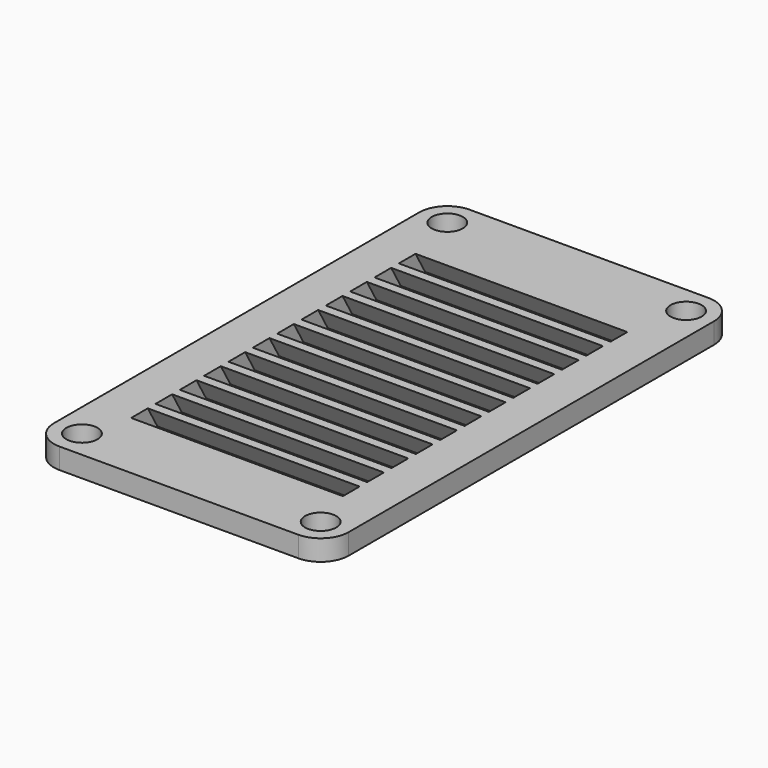
from build123d import *

# Parameters (mm, degrees)
F0_R     = 1.5
F0_W     = 20.4
F0_H     = 35.4
F1_DEPTH = 2
F3_DEPTH = 20.4


with BuildPart() as f1:
    # F0 (on Top) → F1 (new body)
    with BuildSketch(Plane.XY):
        with BuildLine():
            ThreePointArc((-11.5, 49.7), (-13.409188, 48.909188), (-14.2, 47))
            Line((-14.2, 47), (-14.2, 3))
            ThreePointArc((-14.2, 3), (-13.409188, 1.090812), (-11.5, 0.3))
            Line((-11.5, 0.3), (11.5, 0.3))
            ThreePointArc((11.5, 0.3), (13.409188, 1.090812), (14.2, 3))
            Line((14.2, 3), (14.2, 47))
            ThreePointArc((14.2, 47), (13.409188, 48.909188), (11.5, 49.7))
            Line((11.5, 49.7), (-11.5, 49.7))
        make_face()
        with Locations((-11.5, 3)):
            Circle(F0_R, mode=Mode.SUBTRACT)
        with Locations((11.5, 3)):
            Circle(F0_R, mode=Mode.SUBTRACT)
        with Locations((-11.5, 47)):
            Circle(F0_R, mode=Mode.SUBTRACT)
        with Locations((0, 25)):
            Rectangle(F0_W, F0_H, mode=Mode.SUBTRACT)
        with Locations((11.5, 47)):
            Circle(F0_R, mode=Mode.SUBTRACT)
    extrude(amount=F1_DEPTH)

    # F2 (on face) → F3 (join, through all)
    with BuildSketch(Plane(origin=(10.2, 0, 0), x_dir=(0, -1, 0), z_dir=(-1, 0, 0))):
        Polygon((-23.96077, 2), (-24.88453, 2), (-26.03923, 0), (-25.11547, 0), align=None)
        Polygon((-21.030015, 2), (-21.953775, 2), (-23.108475, 0), (-22.184715, 0), align=None)
        Polygon((-18.09926, 2), (-19.02302, 2), (-20.177721, 0), (-19.25396, 0), align=None)
        Polygon((-15.168505, 2), (-16.092265, 2), (-17.246966, 0), (-16.323205, 0), align=None)
        Polygon((-12.23775, 2), (-13.16151, 2), (-14.316211, 0), (-13.39245, 0), align=None)
        Polygon((-9.306995, 2), (-10.230755, 2), (-11.385456, 0), (-10.461695, 0), align=None)
        Polygon((-7.3, 0), (-7.3, 2), (-8.454701, 0), align=None)
        Polygon((-28.046225, 0), (-26.891525, 2), (-27.815285, 2), (-28.969985, 0), align=None)
        Polygon((-30.97698, 0), (-29.822279, 2), (-30.74604, 2), (-31.90074, 0), align=None)
        Polygon((-33.907735, 0), (-32.753034, 2), (-33.676795, 2), (-34.831495, 0), align=None)
        Polygon((-36.83849, 0), (-35.683789, 2), (-36.60755, 2), (-37.76225, 0), align=None)
        Polygon((-39.769245, 0), (-38.614544, 2), (-39.538305, 2), (-40.693005, 0), align=None)
        Polygon((-42.7, 2), (-42.7, 0), (-41.545299, 2), align=None)
    extrude(amount=F3_DEPTH)


solid = f1.part
